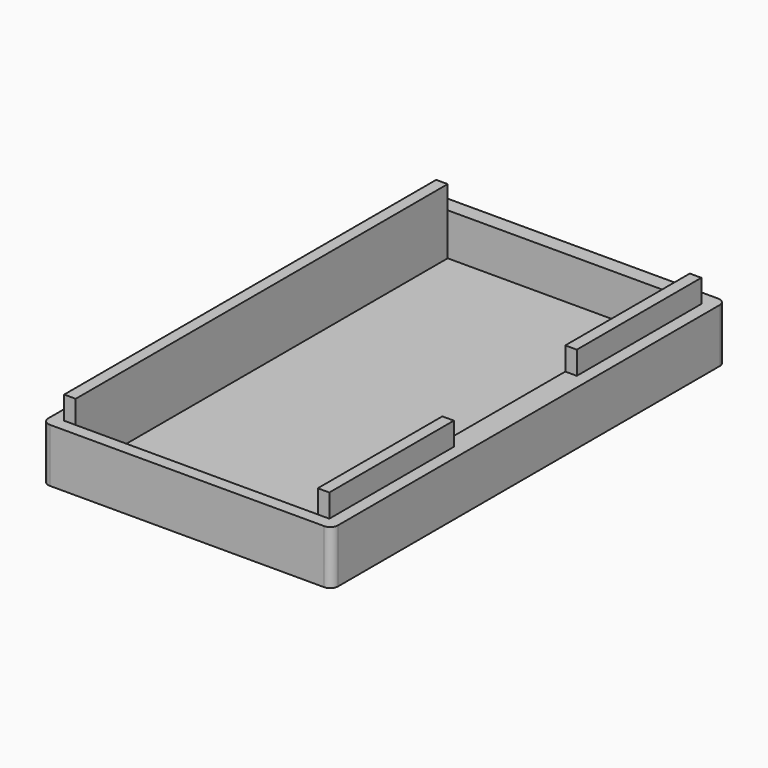
from build123d import *

# Parameters (mm, degrees)
F0_W     = 37.693575
F0_H     = 64.1
F0_W_2   = 31.5
F0_H_2   = 60.5
F1_DEPTH = 7
F2_DEPTH = 1.5
F3_W     = 1.5
F3_H     = 60.5
F4_DEPTH = 3
F5_R     = 1
F6_W     = 20
F6_H     = 3
F7_DEPTH = 1.5


with BuildPart() as f1:
    # F0 (on Top) → F1 (new body)
    with BuildSketch(Plane.XY):
        with Locations((0.003213, 0.2)):
            Rectangle(F0_W, F0_H)
        Rectangle(F0_W_2, F0_H_2, mode=Mode.SUBTRACT)
    extrude(amount=F1_DEPTH)

    # F0 (on Top) → F2 (join)
    with BuildSketch(Plane.XY):
        Rectangle(F0_W_2, F0_H_2)
    extrude(amount=F2_DEPTH)

    # F3 (on face) → F4 (join)
    with BuildSketch(Plane.XY.offset(7)):
        with Locations((-16.5, 0)):
            Rectangle(F3_W, F3_H)
        with Locations((16.5, 0)):
            Rectangle(F3_W, F3_H)
    extrude(amount=F4_DEPTH)

    # F5
    f5_edges = [f1.edges().sort_by_distance(p)[0] for p in [
        (-18.843575, -31.85, 3.5),
        (18.85, -31.85, 3.5),
        (18.85, 32.25, 3.5),
        (-18.843575, 32.25, 3.5),
    ]]
    fillet(f5_edges, radius=F5_R)

    # F6 (on face) → F7 (cut, through all)
    with BuildSketch(Plane.YZ.offset(17.25)):
        with Locations((0, 8.5)):
            Rectangle(F6_W, F6_H)
    extrude(amount=-F7_DEPTH, mode=Mode.SUBTRACT)


solid = f1.part
